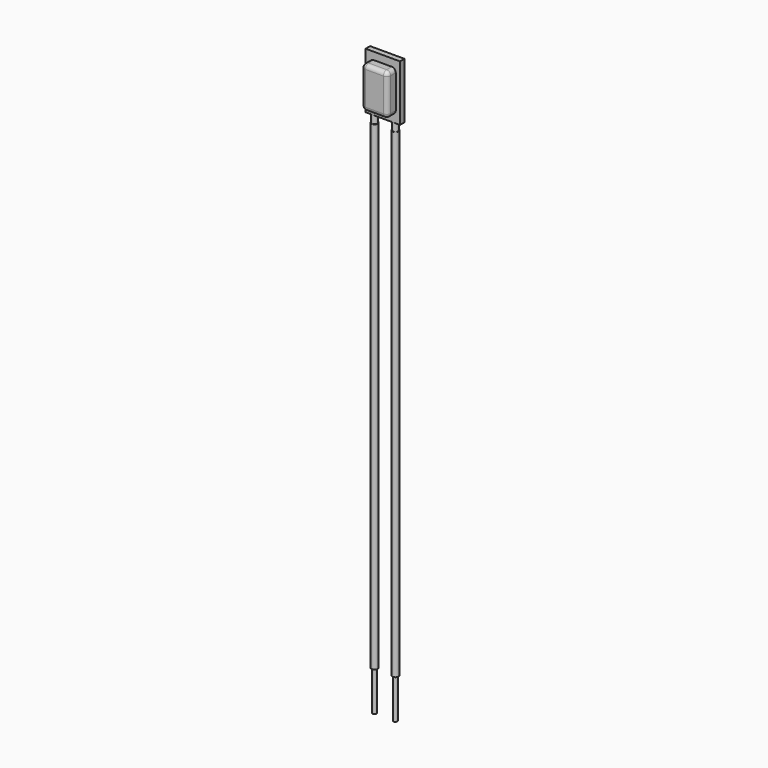
from build123d import *

# Parameters (mm, degrees)
F0_W      = 10.922
F0_H      = 17.78
F1_DEPTH  = 1.778
F2_W      = 8.255
F2_H      = 13.081
F3_DEPTH  = 3.302
F4_R      = 1.27
F5_R      = 0.889
F6_DEPTH  = 2.54
F7_R      = 1.016
F8_DEPTH  = 152.4
F9_R      = 1.016
F10_DEPTH = 152.4
F11_R     = 0.5969
F12_DEPTH = 12.7
F13_R     = 0.5969
F14_DEPTH = 12.7


with BuildPart() as f1:
    # F0 (on Front) → F1 (new body)
    with BuildSketch(Plane.XZ):
        Rectangle(F0_W, F0_H)
    extrude(amount=F1_DEPTH)

    # F2 (on face) → F3 (join)
    with BuildSketch(Plane.XZ.offset(1.778)):
        Rectangle(F2_W, F2_H)
    extrude(amount=F3_DEPTH)

    # F4
    f4_edges = [f1.edges().sort_by_distance(p)[0] for p in [
        (-4.1275, -5.08, 0),
        (0, -5.08, 6.5405),
        (4.1275, -5.08, 0),
        (0, -5.08, -6.5405),
        (-4.1275, -3.429, -6.5405),
        (-4.1275, -3.429, 6.5405),
        (4.1275, -3.429, 6.5405),
        (4.1275, -3.429, -6.5405),
    ]]
    fillet(f4_edges, radius=F4_R)

    # F5 (on face) → F6 (join)
    with BuildSketch(Plane(origin=(0, 0, -8.89), x_dir=(1, 0, 0), z_dir=(0, 0, -1))):
        with Locations((-3.302, 0.889)):
            Circle(F5_R)
        with Locations((3.302, 0.889)):
            Circle(F5_R)
    extrude(amount=F6_DEPTH)


with BuildPart() as f8:
    # F7 (on face) → F8 (new body)
    with BuildSketch(Plane(origin=(0, 0, -11.43), x_dir=(1, 0, 0), z_dir=(0, 0, -1))):
        with Locations((-3.302, 0.889)):
            Circle(F7_R)
    extrude(amount=F8_DEPTH)


with BuildPart() as f10:
    # F9 (on face) → F10 (new body)
    with BuildSketch(Plane(origin=(0, 0, -11.43), x_dir=(1, 0, 0), z_dir=(0, 0, -1))):
        with Locations((3.302, 0.889)):
            Circle(F9_R)
    extrude(amount=F10_DEPTH)


with BuildPart() as f12:
    # F11 (on face) → F12 (new body)
    with BuildSketch(Plane(origin=(0, 0, -163.83), x_dir=(1, 0, 0), z_dir=(0, 0, -1))):
        with Locations((-3.302, 0.889)):
            Circle(F11_R)
    extrude(amount=F12_DEPTH)


with BuildPart() as f14:
    # F13 (on face) → F14 (new body)
    with BuildSketch(Plane(origin=(0, 0, -163.83), x_dir=(1, 0, 0), z_dir=(0, 0, -1))):
        with Locations((3.302, 0.889)):
            Circle(F13_R)
    extrude(amount=F14_DEPTH)


solid = Compound([f1.part, f8.part, f10.part, f12.part, f14.part])
